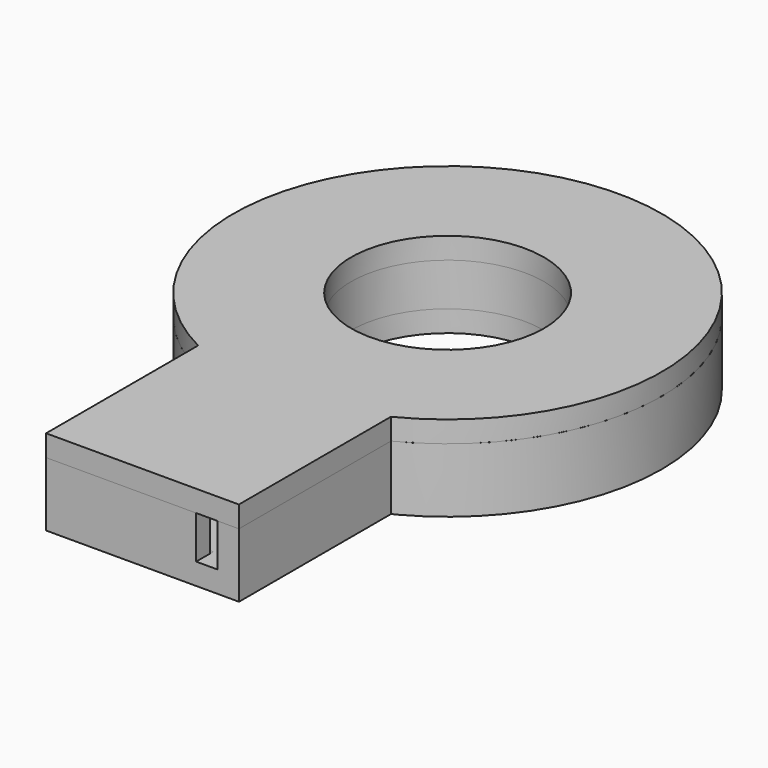
from build123d import *

# Parameters (mm, degrees)
SKETCH_R             = 20
PAD_DEPTH            = 30
SKETCH001_R          = 18
POCKET_DEPTH         = 40
SKETCH002_W          = 40
SKETCH002_H          = 26
POCKET001_DEPTH      = 20.001
POCKET001_DEPTH_BACK = 20.001
SKETCH014_W          = 14
SKETCH014_H          = 7.569522
POCKET010_DEPTH      = 6
SKETCH005_R          = 11
PAD002_DEPTH         = 30
SKETCH006_W          = 40
SKETCH006_H          = 26
POCKET003_DEPTH      = 11.001
POCKET003_DEPTH_BACK = 11.001
SKETCH007_R          = 9
POCKET004_DEPTH      = 6.001
SKETCH003_R          = 18
PAD001_DEPTH         = 30
SKETCH004_W          = 40
SKETCH004_H          = 30
POCKET002_DEPTH      = 18.001
POCKET002_DEPTH_BACK = 18.001
SKETCH008_R          = 9
POCKET005_DEPTH      = 2.001
SKETCH009_W          = 18
SKETCH009_H          = 20
PAD003_DEPTH         = 9
SKETCH010_W          = 14
SKETCH010_H          = 17
POCKET006_DEPTH      = 7
SKETCH011_W          = 40
SKETCH011_H          = 26
POCKET007_DEPTH      = 21
SKETCH012_W          = 14
SKETCH012_H          = 7.424547
POCKET008_DEPTH      = 19
SKETCH013_R          = 18
POCKET009_DEPTH      = 7
SKETCH021_W          = 2
SKETCH021_H          = 8
POCKET015_DEPTH      = 5
SKETCH015_W          = 40
SKETCH015_H          = 26
PAD004_DEPTH         = 36
SKETCH016_W          = 40
SKETCH016_H          = 26
POCKET011_DEPTH      = 36
SKETCH017_R          = 9
POCKET012_DEPTH      = 8.001
POCKET013_DEPTH      = 25
SKETCH019_W          = 20
SKETCH019_H          = 5
POCKET014_DEPTH      = 15
PAD005_DEPTH         = 1.5


with BuildPart() as base_cylinder_external:
    # Sketch → Pad (new body)
    with BuildSketch(Plane.XY):
        Circle(SKETCH_R)
    extrude(amount=PAD_DEPTH)

    # Sketch001 → Pocket (cut)
    with BuildSketch(Plane.XY):
        Circle(SKETCH001_R)
    extrude(amount=POCKET_DEPTH, mode=Mode.SUBTRACT)

    # Sketch002 → Pocket001 (cut, two sides)
    with BuildSketch(Plane.XZ) as pocket001_sk:
        with Locations((0, 19)):
            Rectangle(SKETCH002_W, SKETCH002_H)
    extrude(amount=-POCKET001_DEPTH, mode=Mode.SUBTRACT)
    extrude(pocket001_sk.sketch, amount=POCKET001_DEPTH_BACK, mode=Mode.SUBTRACT)

    # Sketch014 → Pocket010 (cut)
    with BuildSketch(Plane.XZ.offset(22)):
        with Locations((0, 5.784761)):
            Rectangle(SKETCH014_W, SKETCH014_H)
    extrude(amount=-POCKET010_DEPTH, mode=Mode.SUBTRACT)


with BuildPart() as base_cylinder_internal:
    # Sketch005 → Pad002 (new body)
    with BuildSketch(Plane.XY):
        Circle(SKETCH005_R)
    extrude(amount=PAD002_DEPTH)

    # Sketch006 → Pocket003 (cut, two sides)
    with BuildSketch(Plane.XZ) as pocket003_sk:
        with Locations((0, 19)):
            Rectangle(SKETCH006_W, SKETCH006_H)
    extrude(amount=-POCKET003_DEPTH, mode=Mode.SUBTRACT)
    extrude(pocket003_sk.sketch, amount=POCKET003_DEPTH_BACK, mode=Mode.SUBTRACT)

    # Sketch007 → Pocket004 (cut, through all)
    with BuildSketch(Plane.XY):
        Circle(SKETCH007_R)
    extrude(amount=POCKET004_DEPTH, mode=Mode.SUBTRACT)


with BuildPart() as base_cylinder_intermediate:
    # Sketch003 → Pad001 (new body)
    with BuildSketch(Plane.XY):
        Circle(SKETCH003_R)
    extrude(amount=PAD001_DEPTH)

    # Sketch004 → Pocket002 (cut, two sides)
    with BuildSketch(Plane.XZ) as pocket002_sk:
        with Locations((0, 17)):
            Rectangle(SKETCH004_W, SKETCH004_H)
    extrude(amount=-POCKET002_DEPTH, mode=Mode.SUBTRACT)
    extrude(pocket002_sk.sketch, amount=POCKET002_DEPTH_BACK, mode=Mode.SUBTRACT)

    # Sketch008 → Pocket005 (cut, through all)
    with BuildSketch(Plane.XY):
        Circle(SKETCH008_R)
    extrude(amount=POCKET005_DEPTH, mode=Mode.SUBTRACT)


with BuildPart() as base_box:
    # Sketch009 → Pad003 (new body)
    with BuildSketch(Plane.XY):
        with Locations((0, -25.588457)):
            Rectangle(SKETCH009_W, SKETCH009_H)
    extrude(amount=PAD003_DEPTH)

    # Sketch010 → Pocket006 (cut)
    with BuildSketch(Plane.XY.offset(2)):
        with Locations((0, -25.083124)):
            Rectangle(SKETCH010_W, SKETCH010_H)
    extrude(amount=POCKET006_DEPTH, mode=Mode.SUBTRACT)

    # Sketch011 → Pocket007 (cut)
    with BuildSketch(Plane.XZ.offset(15)):
        with Locations((0, 19)):
            Rectangle(SKETCH011_W, SKETCH011_H)
    extrude(amount=POCKET007_DEPTH, mode=Mode.SUBTRACT)

    # Sketch012 → Pocket008 (cut)
    with BuildSketch(Plane.XZ.offset(15)):
        with Locations((0, 5.712274)):
            Rectangle(SKETCH012_W, SKETCH012_H)
    extrude(amount=POCKET008_DEPTH, mode=Mode.SUBTRACT)

    # Sketch013 → Pocket009 (cut)
    with BuildSketch(Plane.XY.offset(9)):
        Circle(SKETCH013_R)
    extrude(amount=-POCKET009_DEPTH, mode=Mode.SUBTRACT)

    # Sketch021 → Pocket015 (cut)
    with BuildSketch(Plane.XZ.offset(37)):
        with Locations((6, 6)):
            Rectangle(SKETCH021_W, SKETCH021_H)
    extrude(amount=-POCKET015_DEPTH, mode=Mode.SUBTRACT)


with BuildPart() as top:
    # Sketch015 → Pad004 (new body, symmetric)
    with BuildSketch(Plane.XZ):
        with Locations((0, 19)):
            Rectangle(SKETCH015_W, SKETCH015_H)
    extrude(amount=PAD004_DEPTH, both=True)

    # Sketch016 → Pocket011 (cut, symmetric)
    with BuildSketch(Plane.XZ):
        with Locations((0, 21)):
            Rectangle(SKETCH016_W, SKETCH016_H)
    extrude(amount=POCKET011_DEPTH, both=True, mode=Mode.SUBTRACT)

    # Sketch017 → Pocket012 (cut, through all)
    with BuildSketch(Plane.XY):
        Circle(SKETCH017_R)
    extrude(amount=POCKET012_DEPTH, mode=Mode.SUBTRACT)

    # Sketch018 → Pocket013 (cut)
    with BuildSketch(Plane.XY):
        with BuildLine():
            Line((9, -38.955163), (9, -17.860571))
            ThreePointArc((9, -17.860571), (0, 20), (-9, -17.860571))
            Line((-9, -38.955163), (-9, -17.860571))
            Line((-9, -38.955163), (-27, -38.955163))
            Line((-27, -38.955163), (-27, 41.044837))
            Line((-27, 41.044837), (27, 41.044837))
            Line((27, 41.044837), (27, -38.955163))
            Line((27, -38.955163), (9, -38.955163))
        make_face()
    extrude(amount=POCKET013_DEPTH, mode=Mode.SUBTRACT)

    # Sketch019 → Pocket014 (cut)
    with BuildSketch(Plane.XY):
        with Locations((0, -38.1)):
            Rectangle(SKETCH019_W, SKETCH019_H)
    extrude(amount=POCKET014_DEPTH, mode=Mode.SUBTRACT)

    # Sketch020 → Pad005 (join)
    with BuildSketch(Plane.XY.offset(7)):
        Polygon((-6.8, -20.975668), (-6.8, -33.5), (6.8, -33.5), (6.8, -20.975668), (5.8, -20.975668), (5.8, -32.5), (-5.8, -32.5), (-5.8, -20.975668), align=None)
    extrude(amount=-PAD005_DEPTH)


solid = Compound([base_cylinder_external.part, base_cylinder_internal.part, base_cylinder_intermediate.part, base_box.part, top.part])
